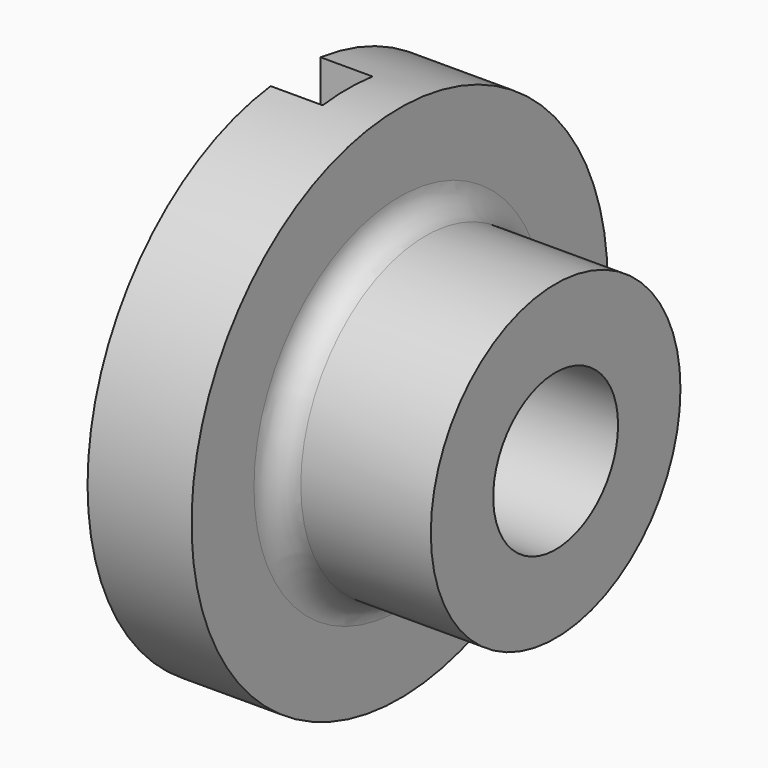
from build123d import *

# Parameters (mm, degrees)
F0_W          = 10
F0_H          = 6
F2_DEPTH      = 50.001
F2_DEPTH_BACK = 50.001


with BuildPart() as f1:
    # F0 (on Top) → F1 (revolve)
    with BuildSketch(Plane.XY):
        with BuildLine():
            Line((-33.7744166376, 0), (-53.7744166376, 0))
            Line((-53.7744166376, 0), (-53.7744166376, -35))
            Line((-53.7744166376, -35), (-3.7744166376, -35))
            Line((-3.7744166376, -35), (-3.7744166376, -20))
            Line((-3.7744166376, -20), (-28.7744166376, -20))
            ThreePointArc((-28.7744166376, -20), (-32.3099505436, -18.5355339059), (-33.7744166376, -15))
            Line((-33.7744166376, -15), (-33.7744166376, 0))
        make_face()
    revolve(axis=Axis((-3.7744166376, -50, 0), (1, 0, 0)))

    # F0 (on Top) → F2 (cut, two sides)
    with BuildSketch(Plane.XY) as f2_sk:
        with Locations((-48.7744166376, -53)):
            Rectangle(F0_W, F0_H)
        with Locations((-48.7744166376, -47)):
            Rectangle(F0_W, F0_H)
    extrude(amount=-F2_DEPTH, mode=Mode.SUBTRACT)
    extrude(f2_sk.sketch, amount=F2_DEPTH_BACK, mode=Mode.SUBTRACT)


solid = f1.part
